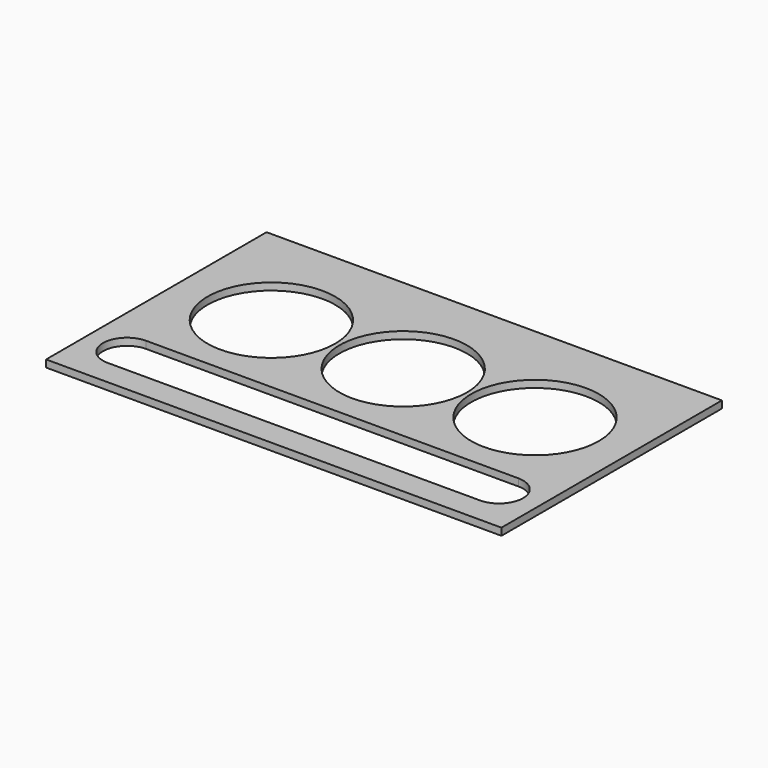
from build123d import *

# Parameters (mm, degrees)
F0_W     = 76
F0_H     = 45.993595
F0_R     = 10.65
F1_DEPTH = 1.2


with BuildPart() as f1:
    # F0 (on Top) → F1 (new body)
    with BuildSketch(Plane.XY):
        with Locations((-6, -0.003203)):
            Rectangle(F0_W, F0_H)
        with BuildLine():
            ThreePointArc((25, -10.74128), (29, -14.74128), (25, -18.74128))
            Line((25, -18.74128), (-37.108036, -18.74128))
            ThreePointArc((-37.108036, -18.74128), (-41.108036, -14.74128), (-37.108036, -10.74128))
            Line((-37.108036, -10.74128), (25, -10.74128))
        make_face(mode=Mode.SUBTRACT)
        with Locations((-28, 4)):
            Circle(F0_R, mode=Mode.SUBTRACT)
        with Locations((-6, 4)):
            Circle(F0_R, mode=Mode.SUBTRACT)
        with Locations((16, 4)):
            Circle(F0_R, mode=Mode.SUBTRACT)
    extrude(amount=F1_DEPTH)


solid = f1.part
